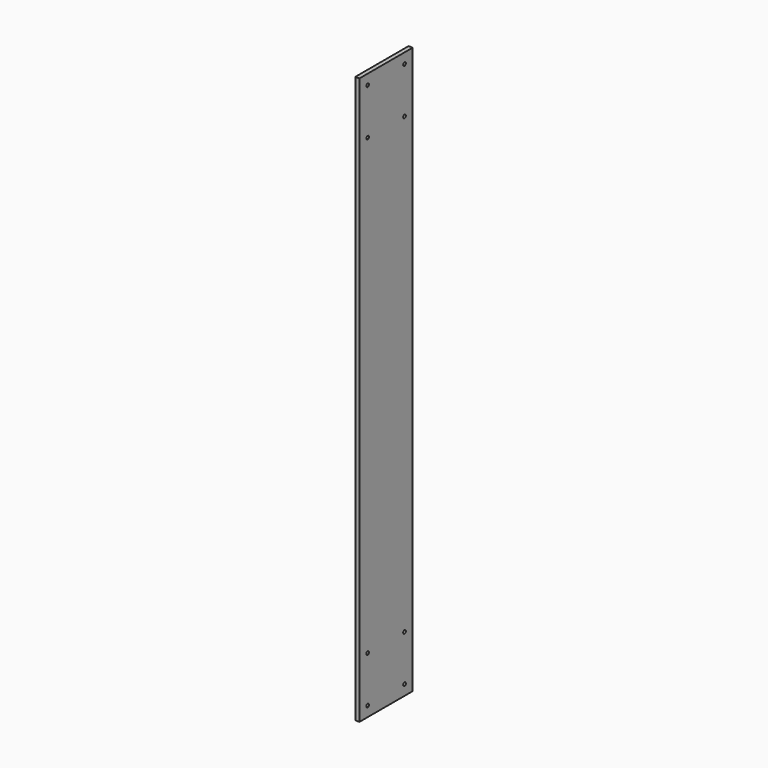
from build123d import *

# Parameters (mm, degrees)
F0_W     = 50.8
F0_H     = 431.8
F1_DEPTH = 3.175
F2_R     = 1.27
F3_DEPTH = 3.176


with BuildPart() as f1:
    # F0 (on Right) → F1 (new body)
    with BuildSketch(Plane.YZ):
        with Locations((-7.301044, 130.978498)):
            Rectangle(F0_W, F0_H)
    extrude(amount=F1_DEPTH)

    # F2 (on face) → F3 (cut, through all)
    with BuildSketch(Plane.YZ.offset(3.175)):
        with BuildLine():
            Line((-24.879722, 303.89982), (-24.879722, 305.16982))
            ThreePointArc((-24.879722, 305.16982), (-25.777748, 303.001794), (-23.609722, 303.89982))
            Line((-23.609722, 303.89982), (-24.879722, 303.89982))
        make_face()
        with BuildLine():
            ThreePointArc((-23.609722, 303.89982), (-23.981697, 304.797846), (-24.879722, 305.16982))
            Line((-24.879722, 305.16982), (-24.879722, 303.89982))
            Line((-24.879722, 303.89982), (-23.609722, 303.89982))
        make_face()
        with BuildLine():
            ThreePointArc((-24.879722, 337.787177), (-23.981697, 338.159151), (-23.609722, 339.057177))
            Line((-23.609722, 339.057177), (-24.879722, 339.057177))
            Line((-24.879722, 339.057177), (-24.879722, 337.787177))
        make_face()
        with BuildLine():
            Line((-24.879722, 339.057177), (-23.609722, 339.057177))
            ThreePointArc((-23.609722, 339.057177), (-25.777748, 339.955202), (-24.879722, 337.787177))
            Line((-24.879722, 337.787177), (-24.879722, 339.057177))
        make_face()
        with BuildLine():
            ThreePointArc((11.547634, 339.057177), (10.277634, 340.327177), (9.007634, 339.057177))
            Line((9.007634, 339.057177), (10.277634, 339.057177))
            Line((10.277634, 339.057177), (10.277634, 337.787177))
            ThreePointArc((10.277634, 337.787177), (11.17566, 338.159151), (11.547634, 339.057177))
        make_face()
        with BuildLine():
            Line((10.277634, 339.057177), (9.007634, 339.057177))
            ThreePointArc((9.007634, 339.057177), (9.379609, 338.159151), (10.277634, 337.787177))
            Line((10.277634, 337.787177), (10.277634, 339.057177))
        make_face()
        with BuildLine():
            ThreePointArc((11.547634, 303.89982), (11.17566, 304.797846), (10.277634, 305.16982))
            Line((10.277634, 305.16982), (10.277634, 303.89982))
            Line((10.277634, 303.89982), (9.007634, 303.89982))
            ThreePointArc((9.007634, 303.89982), (10.277634, 302.62982), (11.547634, 303.89982))
        make_face()
        with BuildLine():
            Line((10.277634, 303.89982), (10.277634, 305.16982))
            ThreePointArc((10.277634, 305.16982), (9.379609, 304.797846), (9.007634, 303.89982))
            Line((9.007634, 303.89982), (10.277634, 303.89982))
        make_face()
        with BuildLine():
            ThreePointArc((-23.609722, -77.10018), (-23.981697, -76.202154), (-24.879722, -75.83018))
            ThreePointArc((-24.879722, -75.83018), (-25.777748, -77.998206), (-23.609722, -77.10018))
        make_face()
        with BuildLine():
            ThreePointArc((-24.879722, -43.212823), (-23.981697, -42.840849), (-23.609722, -41.942823))
            Line((-23.609722, -41.942823), (-24.879722, -41.942823))
            Line((-24.879722, -41.942823), (-24.879722, -43.212823))
        make_face()
        with BuildLine():
            Line((-24.879722, -41.942823), (-23.609722, -41.942823))
            ThreePointArc((-23.609722, -41.942823), (-25.777748, -41.044798), (-24.879722, -43.212823))
            Line((-24.879722, -43.212823), (-24.879722, -41.942823))
        make_face()
        with BuildLine():
            ThreePointArc((11.547634, -41.942823), (10.277634, -40.672823), (9.007634, -41.942823))
            ThreePointArc((9.007634, -41.942823), (10.277634, -43.212823), (11.547634, -41.942823))
        make_face()
        with Locations((10.277634, -77.10018)):
            Circle(F2_R)
    extrude(amount=-F3_DEPTH, mode=Mode.SUBTRACT)


solid = f1.part
